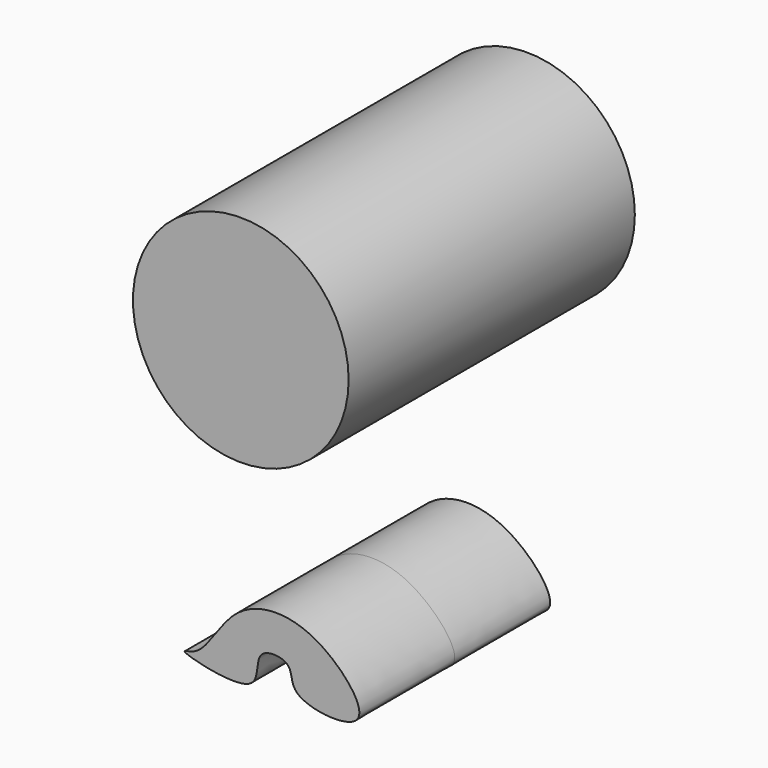
from build123d import *

# Parameters (mm, degrees)
F0_R          = 22.6081890005
F1_DEPTH      = 25
F1_DEPTH_BACK = 25
F2_DEPTH      = 25
F2_DEPTH_BACK = 10
F4_DEPTH      = 25
F4_DEPTH_BACK = 25


with BuildPart() as f1:
    # F0 (on Front) → F1 (new body, two sides)
    with BuildSketch(Plane.XZ) as f1_sk:
        with Locations((-34.2193432152, 36.0560752451)):
            Circle(F0_R)
    extrude(amount=F1_DEPTH)
    extrude(f1_sk.sketch, amount=-F1_DEPTH_BACK)

    # F2 (add, two sides): a face of the model
    f2_faces = [f1.faces().sort_by_distance(p)[0] for p in [
        (-34.2193432152, -25, 36.0560752451),
    ]]
    extrude(f2_faces, amount=F2_DEPTH)
    extrude(f2_faces, amount=-F2_DEPTH_BACK)


with BuildPart() as f4:
    # F3 (on Front) → F4 (new body, two sides)
    with BuildSketch(Plane.XZ) as f4_sk:
        with BuildLine():
            add(Edge.make_bspline(
                [(-63.6312365532, -41.0633087158), (-60.8211270214, -39.5326244587), (-56.4506492919, -28.4660144835), (-38.7955010897, -27.0091462454), (-22.8141098296, -45.9308536763), (-44.9717923163, -43.7581340376), (-42.5658968287, -36.3495222877), (-52.2240357952, -35.7827783866), (-48.6038056513, -46.9320244746), (-69.47039064, -41.6041276228), (-64.8639100139, -41.7347536681), (-63.6312365532, -41.0633087158)],
                knots=[0, 0, 0, 0, 0.1309993209, 0.2775632856, 0.4187311014, 0.5474998449, 0.6295001226, 0.7152798238, 0.8076952305, 0.9425362661, 1, 1, 1, 1], degree=3))
        make_face()
    extrude(amount=F4_DEPTH)
    extrude(f4_sk.sketch, amount=-F4_DEPTH_BACK)


solid = Compound([f1.part, f4.part])
